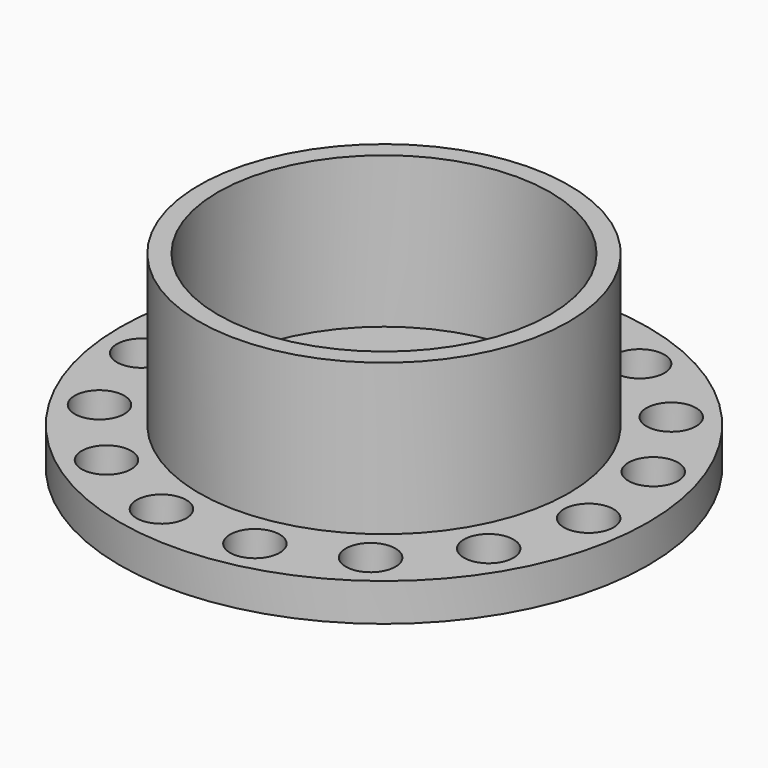
from build123d import *

# Parameters (mm, degrees)
F0_R     = 35
F0_R_2   = 3.2880949383
F0_R_3   = 24.5
F0_R_4   = 22
F0_R_5   = 6.6571375288
F0_R_6   = 1.75
F1_DEPTH = 5
F2_DEPTH = 25
F3_DEPTH = 3


with BuildPart() as f1:
    # F0 (on Top) → F1 (new body)
    with BuildSketch(Plane.XY):
        Circle(F0_R)
        with Locations((-17.5033363634, -24.0912757185)):
            Circle(F0_R_2, mode=Mode.SUBTRACT)
        with Locations((-6.1912888152, -29.1277237765)):
            Circle(F0_R_2, mode=Mode.SUBTRACT)
        with Locations((-25.7888980415, -14.8892272264)):
            Circle(F0_R_2, mode=Mode.SUBTRACT)
        with Locations((-29.6153249635, -3.1126960824)):
            Circle(F0_R_2, mode=Mode.SUBTRACT)
        with Locations((6.1912888152, -29.1277237765)):
            Circle(F0_R_2, mode=Mode.SUBTRACT)
        with Locations((17.5033363634, -24.0912757185)):
            Circle(F0_R_2, mode=Mode.SUBTRACT)
        with Locations((25.7888980415, -14.8892272264)):
            Circle(F0_R_2, mode=Mode.SUBTRACT)
        with Locations((29.6153249635, -3.1126960824)):
            Circle(F0_R_2, mode=Mode.SUBTRACT)
        with Locations((-28.3209931525, 9.2020484921)):
            Circle(F0_R_2, mode=Mode.SUBTRACT)
        with Locations((-22.1297043373, 19.9256752844)):
            Circle(F0_R_2, mode=Mode.SUBTRACT)
        with Locations((-12.1119886001, 27.2039718009)):
            Circle(F0_R_2, mode=Mode.SUBTRACT)
        Circle(F0_R_3, mode=Mode.SUBTRACT)
        with Locations((28.3209931525, 9.2020484921)):
            Circle(F0_R_2, mode=Mode.SUBTRACT)
        with Locations((0, 29.7784544528)):
            Circle(F0_R_2, mode=Mode.SUBTRACT)
        with Locations((12.1119886001, 27.2039718009)):
            Circle(F0_R_2, mode=Mode.SUBTRACT)
        with Locations((22.1297043373, 19.9256752844)):
            Circle(F0_R_2, mode=Mode.SUBTRACT)
        Circle(F0_R_3)
        Circle(F0_R_4, mode=Mode.SUBTRACT)
        Circle(F0_R_4)
        with Locations((0, -11.8328090757)):
            Circle(F0_R_5, mode=Mode.SUBTRACT)
        with Locations((-11.8328090757, 0)):
            Circle(F0_R_5, mode=Mode.SUBTRACT)
        Circle(F0_R_6, mode=Mode.SUBTRACT)
        with Locations((11.8328090757, 0)):
            Circle(F0_R_5, mode=Mode.SUBTRACT)
        with Locations((0, 11.8328090757)):
            Circle(F0_R_5, mode=Mode.SUBTRACT)
    extrude(amount=F1_DEPTH)

    # F0 (on Top) → F2 (join)
    with BuildSketch(Plane.XY):
        Circle(F0_R_3)
        Circle(F0_R_4, mode=Mode.SUBTRACT)
    extrude(amount=F2_DEPTH)

    # F0 (on Top) → F3 (join)
    with BuildSketch(Plane.XY):
        Circle(F0_R)
        with Locations((-17.5033363634, -24.0912757185)):
            Circle(F0_R_2, mode=Mode.SUBTRACT)
        with Locations((-6.1912888152, -29.1277237765)):
            Circle(F0_R_2, mode=Mode.SUBTRACT)
        with Locations((-25.7888980415, -14.8892272264)):
            Circle(F0_R_2, mode=Mode.SUBTRACT)
        with Locations((-29.6153249635, -3.1126960824)):
            Circle(F0_R_2, mode=Mode.SUBTRACT)
        with Locations((6.1912888152, -29.1277237765)):
            Circle(F0_R_2, mode=Mode.SUBTRACT)
        with Locations((17.5033363634, -24.0912757185)):
            Circle(F0_R_2, mode=Mode.SUBTRACT)
        with Locations((25.7888980415, -14.8892272264)):
            Circle(F0_R_2, mode=Mode.SUBTRACT)
        with Locations((29.6153249635, -3.1126960824)):
            Circle(F0_R_2, mode=Mode.SUBTRACT)
        with Locations((-28.3209931525, 9.2020484921)):
            Circle(F0_R_2, mode=Mode.SUBTRACT)
        with Locations((-22.1297043373, 19.9256752844)):
            Circle(F0_R_2, mode=Mode.SUBTRACT)
        with Locations((-12.1119886001, 27.2039718009)):
            Circle(F0_R_2, mode=Mode.SUBTRACT)
        Circle(F0_R_3, mode=Mode.SUBTRACT)
        with Locations((28.3209931525, 9.2020484921)):
            Circle(F0_R_2, mode=Mode.SUBTRACT)
        with Locations((0, 29.7784544528)):
            Circle(F0_R_2, mode=Mode.SUBTRACT)
        with Locations((12.1119886001, 27.2039718009)):
            Circle(F0_R_2, mode=Mode.SUBTRACT)
        with Locations((22.1297043373, 19.9256752844)):
            Circle(F0_R_2, mode=Mode.SUBTRACT)
    extrude(amount=F3_DEPTH)


solid = f1.part
